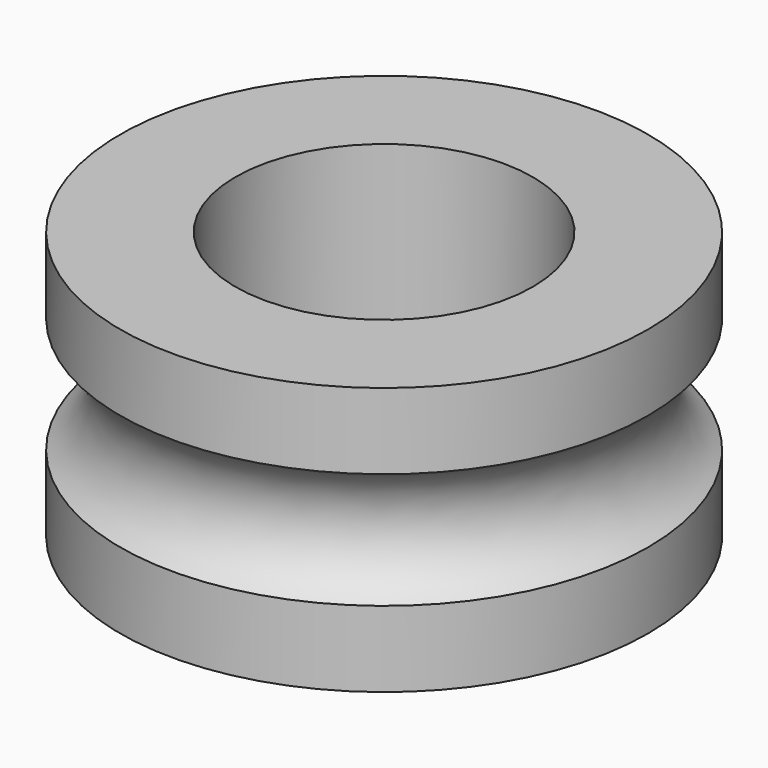
from build123d import *

# Parameters (mm, degrees)
F2_SIZE = 0.8


with BuildPart() as f1:
    # F0 (on Front) → F1 (revolve)
    with BuildSketch(Plane.XZ):
        with BuildLine():
            Line((5, 9), (5, 0))
            Line((5, 0), (8.875, 0))
            Line((8.875, 0), (8.875, 2.551443))
            ThreePointArc((8.875, 2.551443), (7.75, 4.5), (8.875, 6.448557))
            Line((8.875, 6.448557), (8.875, 9))
            Line((8.875, 9), (5, 9))
        make_face()
    revolve(axis=Axis((0, 0, 23.187623), (0, 0, 1)))

    # F2
    f2_edges = [f1.edges().sort_by_distance(p)[0] for p in [
        (-5, 0, 0),
    ]]
    chamfer(f2_edges, length=F2_SIZE)


solid = f1.part
